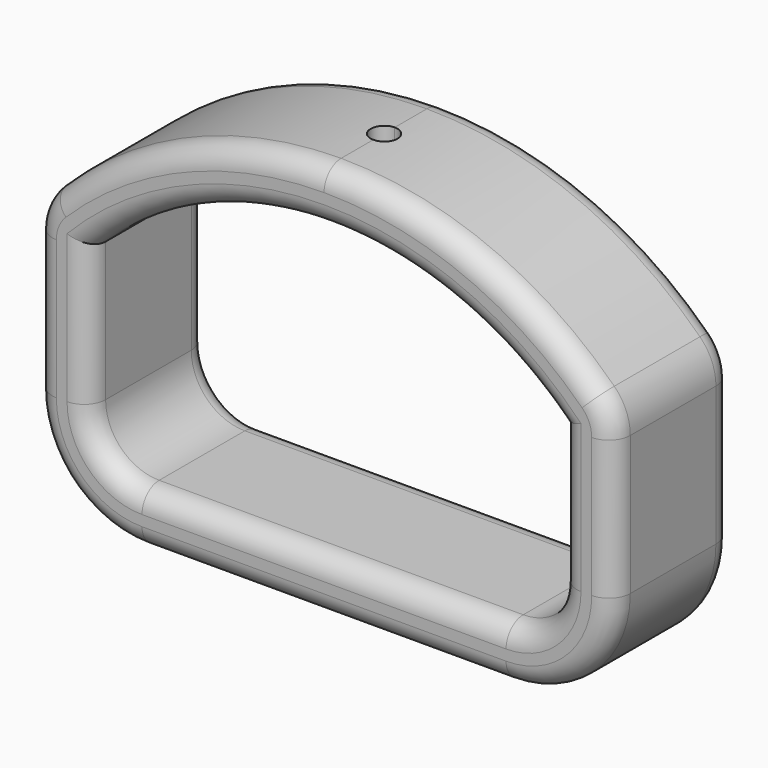
from build123d import *

# Parameters (mm, degrees)
F1_DEPTH = 14
F3_DEPTH = 23.7
F4_R     = 2


with BuildPart() as f1:
    # F0 (on Front) → F1 (new body)
    with BuildSketch(Plane.XZ):
        with BuildLine():
            ThreePointArc((27, -8.005587), (26.611392, -6.072957), (25.505976, -4.440741))
            ThreePointArc((25.505976, -4.440741), (13.780093, 3.288774), (0, 6))
            ThreePointArc((0, 6), (-13.780093, 3.288774), (-25.505976, -4.440741))
            ThreePointArc((-25.505976, -4.440741), (-26.611392, -6.072957), (-27, -8.005587))
            Line((-27, -8.005587), (-27, -21))
            ThreePointArc((-27, -21), (-24.071068, -28.071068), (-17, -31))
            Line((-17, -31), (17, -31))
            ThreePointArc((17, -31), (24.071068, -28.071068), (27, -21))
            Line((27, -21), (27, -8.005587))
        make_face()
        with BuildLine():
            ThreePointArc((-22, -8.005587), (0, 1), (22, -8.005587))
            Line((22, -8.005587), (22, -21))
            ThreePointArc((22, -21), (20.535534, -24.535534), (17, -26))
            Line((17, -26), (-17, -26))
            ThreePointArc((-17, -26), (-20.535534, -24.535534), (-22, -21))
            Line((-22, -21), (-22, -8.005587))
        make_face(mode=Mode.SUBTRACT)
    extrude(amount=F1_DEPTH)

    # F2 (on Top) → F3 (cut)
    with BuildSketch(Plane.XY):
        with BuildLine():
            ThreePointArc((0, -8.25), (0.883883, -7.883883), (1.25, -7))
            ThreePointArc((1.25, -7), (0.883883, -6.116117), (0, -5.75))
            Line((0, -5.75), (0, -8.25))
        make_face()
        with BuildLine():
            Line((0, -8.25), (0, -5.75))
            ThreePointArc((0, -5.75), (-1.25, -7), (0, -8.25))
        make_face()
    extrude(amount=F3_DEPTH, mode=Mode.SUBTRACT)

    # F4
    f4_edges = [f1.edges().sort_by_distance(p)[0] for p in [
        (0, -14, 1),
        (22, -14, -14.502794),
        (20.535534, -14, -24.535534),
        (0, 0, -26),
        (0, 0, 1),
        (0, 0, -31),
        (0, -14, -31),
    ]]
    fillet(f4_edges, radius=F4_R)


solid = f1.part
